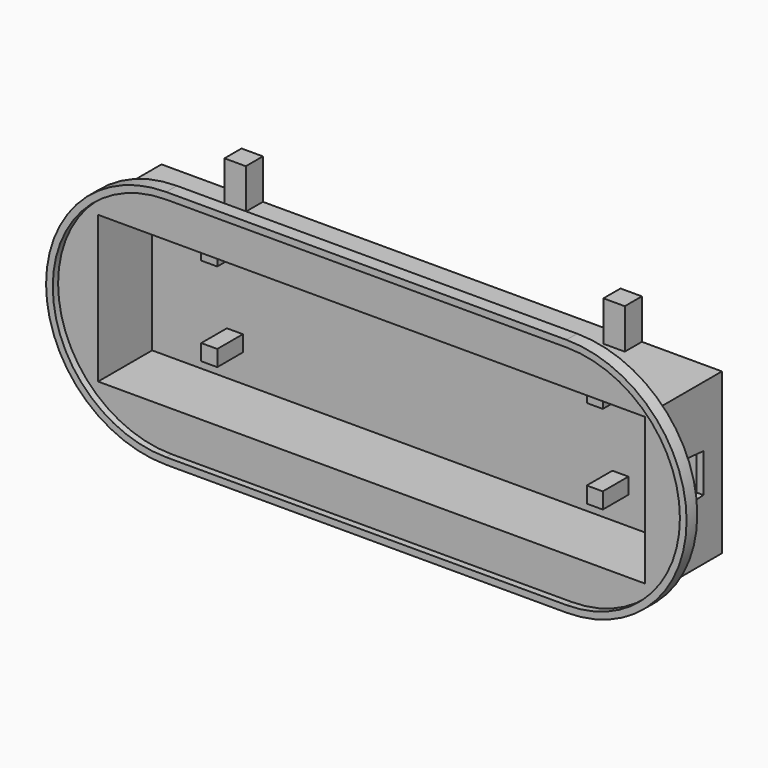
from build123d import *

# Parameters (mm, degrees)
F0_W      = 266.7
F0_H      = 76.2
F1_DEPTH  = 3.175
F2_W      = 266.7
F2_H      = 76.2
F2_W_2    = 260.35
F2_H_2    = 69.85
F3_DEPTH  = 28.956
F4_W      = 260.35
F4_H      = 69.85
F5_DEPTH  = 6.35
F7_DEPTH  = 3.175
F8_W      = 266.7
F8_H      = 76.2
F8_W_2    = 19.05
F8_H_2    = 25.4
F9_DEPTH  = 6.35
F10_W     = 19.05
F10_H     = 25.4
F11_DEPTH = 3.175
F13_DEPTH = 3.175
F14_W     = 10.16
F14_H     = 10.16
F15_DEPTH = 19.05
F16_W     = 7.62
F16_H     = 7.62
F17_DEPTH = 15.24


with BuildPart() as f1:
    # F0 (on Front) → F1 (new body)
    with BuildSketch(Plane.XZ):
        with Locations((133.35, -38.1)):
            Rectangle(F0_W, F0_H)
    extrude(amount=F1_DEPTH)

    # F2 (on face) → F3 (join)
    with BuildSketch(Plane.XZ.offset(3.175)):
        with Locations((133.35, -38.1)):
            Rectangle(F2_W, F2_H)
        with Locations((133.35, -38.1)):
            Rectangle(F2_W_2, F2_H_2, mode=Mode.SUBTRACT)
    extrude(amount=F3_DEPTH)

    # F4 (on face) → F5 (join)
    with BuildSketch(Plane.XZ.offset(32.131)):
        with BuildLine():
            Line((228.6, 19.05), (38.1, 19.05))
            ThreePointArc((38.1, 19.05), (-19.05, -38.1), (38.1, -95.25))
            Line((38.1, -95.25), (228.6, -95.25))
            ThreePointArc((228.6, -95.25), (285.75, -38.1), (228.6, 19.05))
        make_face()
        with Locations((133.35, -38.1)):
            Rectangle(F4_W, F4_H, mode=Mode.SUBTRACT)
    extrude(amount=F5_DEPTH)

    # F6 (on face) → F7 (cut)
    with BuildSketch(Plane.XZ.offset(38.481)):
        with BuildLine():
            Line((228.6, 15.875), (38.1, 15.875))
            ThreePointArc((38.1, 15.875), (-15.875, -38.1), (38.1, -92.075))
            Line((38.1, -92.075), (228.6, -92.075))
            ThreePointArc((228.6, -92.075), (282.575, -38.1), (228.6, 15.875))
        make_face()
    extrude(amount=-F7_DEPTH, mode=Mode.SUBTRACT)

    # F8 (on face) → F9 (join)
    with BuildSketch(Plane(origin=(0, 0, 0), x_dir=(-1, 0, 0), z_dir=(0, 1, 0))):
        with Locations((-133.35, -38.1)):
            Rectangle(F8_W, F8_H)
        with Locations((-206.375, -38.1)):
            Rectangle(F8_W_2, F8_H_2, mode=Mode.SUBTRACT)
        with Locations((-60.325, -38.1)):
            Rectangle(F8_W_2, F8_H_2, mode=Mode.SUBTRACT)
    extrude(amount=F9_DEPTH)

    # F10 (on face) → F11 (join)
    with BuildSketch(Plane(origin=(0, 6.35, 0), x_dir=(-1, 0, 0), z_dir=(0, 1, 0))):
        with Locations((-60.325, -38.1)):
            Rectangle(F10_W, F10_H)
        with BuildLine():
            ThreePointArc((-62.611, -39.198247), (-60.325, -26.924), (-58.039, -39.198247))
            Line((-58.039, -39.198247), (-58.039, -44.45))
            ThreePointArc((-58.039, -44.45), (-60.325, -46.736), (-62.611, -44.45))
            Line((-62.611, -44.45), (-62.611, -39.198247))
        make_face(mode=Mode.SUBTRACT)
        with Locations((-206.375, -38.1)):
            Rectangle(F10_W, F10_H)
        with BuildLine():
            ThreePointArc((-208.661, -39.198247), (-206.375, -26.924), (-204.089, -39.198247))
            Line((-204.089, -39.198247), (-204.089, -44.45))
            ThreePointArc((-204.089, -44.45), (-206.375, -46.736), (-208.661, -44.45))
            Line((-208.661, -44.45), (-208.661, -39.198247))
        make_face(mode=Mode.SUBTRACT)
    extrude(amount=-F11_DEPTH)

    # F12 (on face) → F13 (cut, through all)
    with BuildSketch(Plane.YZ.offset(266.7)):
        Polygon((-4.699, -47.3075), (-4.699, -28.8925), (-15.875, -27.94), (-15.875, -48.26), align=None)
    extrude(amount=-F13_DEPTH, mode=Mode.SUBTRACT)

    # F14 (on face) → F15 (join, through all)
    with BuildSketch(Plane.XY):
        with Locations((43.18, 1.27)):
            Rectangle(F14_W, F14_H)
        with Locations((223.52, 1.27)):
            Rectangle(F14_W, F14_H)
    extrude(amount=F15_DEPTH)

    # F16 (on face) → F17 (join)
    with BuildSketch(Plane.XZ.offset(3.175)):
        with Locations((226.0092, -56.007)):
            Rectangle(F16_W, F16_H)
        with Locations((226.0092, -13.843)):
            Rectangle(F16_W, F16_H)
        with Locations((42.545, -56.007)):
            Rectangle(F16_W, F16_H)
        with Locations((42.545, -13.843)):
            Rectangle(F16_W, F16_H)
    extrude(amount=F17_DEPTH)


solid = f1.part
